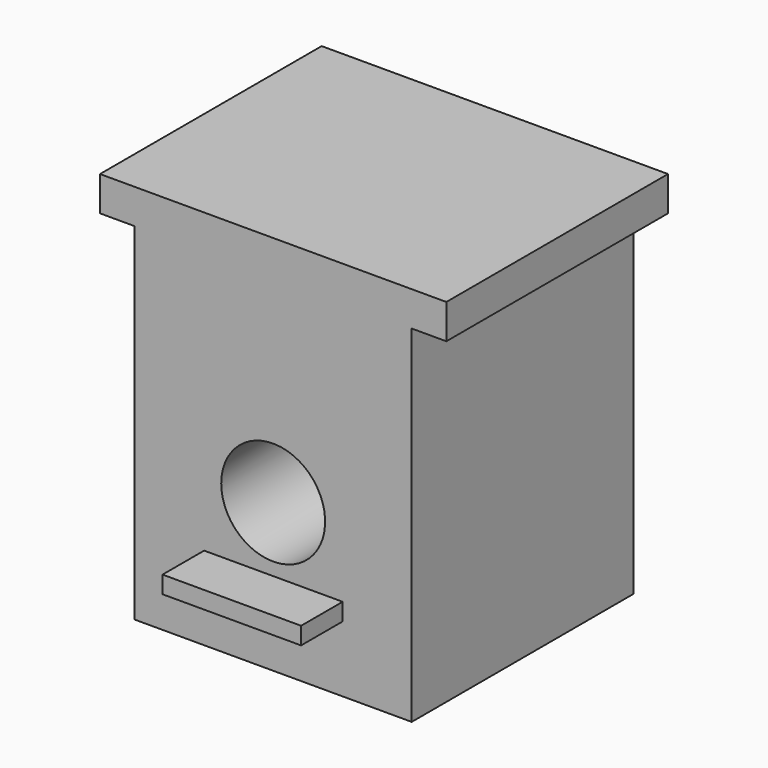
from build123d import *

# Parameters (mm, degrees)
F0_W     = 203.2
F0_H     = 203.2
F1_DEPTH = 254
F3_W     = 25.4
F3_H     = 203.2
F3_W_2   = 203.2
F4_DEPTH = 25.4
F5_D     = 76.2
F5_DEPTH = 127
F5_TIP   = 22.892789585
F6_W     = 101.6
F6_H     = 12.7
F7_DEPTH = 38.1


with BuildPart() as f1:
    # F0 (on Top) → F1 (new body)
    with BuildSketch(Plane.XY):
        with Locations((-101.6, 101.6)):
            Rectangle(F0_W, F0_H)
    extrude(amount=F1_DEPTH)

    # F3 (on face) → F4 (join)
    with BuildSketch(Plane.XY.offset(254)):
        with Locations((-215.9, 101.6)):
            Rectangle(F3_W, F3_H)
        with Locations((12.7, 101.6)):
            Rectangle(F3_W, F3_H)
        with Locations((-101.6, 101.6)):
            Rectangle(F3_W_2, F3_H)
    extrude(amount=F4_DEPTH)

    # F5
    with Locations(Plane.XZ):
        with Locations((-101.6, 108.5994392633)):
            Hole(F5_D / 2, depth=F5_DEPTH)
            with Locations((0, 0, -(F5_DEPTH + F5_TIP / 2))):  # 118° drill point
                Cone(0, F5_D / 2, F5_TIP, mode=Mode.SUBTRACT)

    # F6 (on face) → F7 (join)
    with BuildSketch(Plane.XZ):
        with Locations((-101.4467881441, 54.7498768032)):
            Rectangle(F6_W, F6_H)
    extrude(amount=F7_DEPTH)


solid = f1.part
